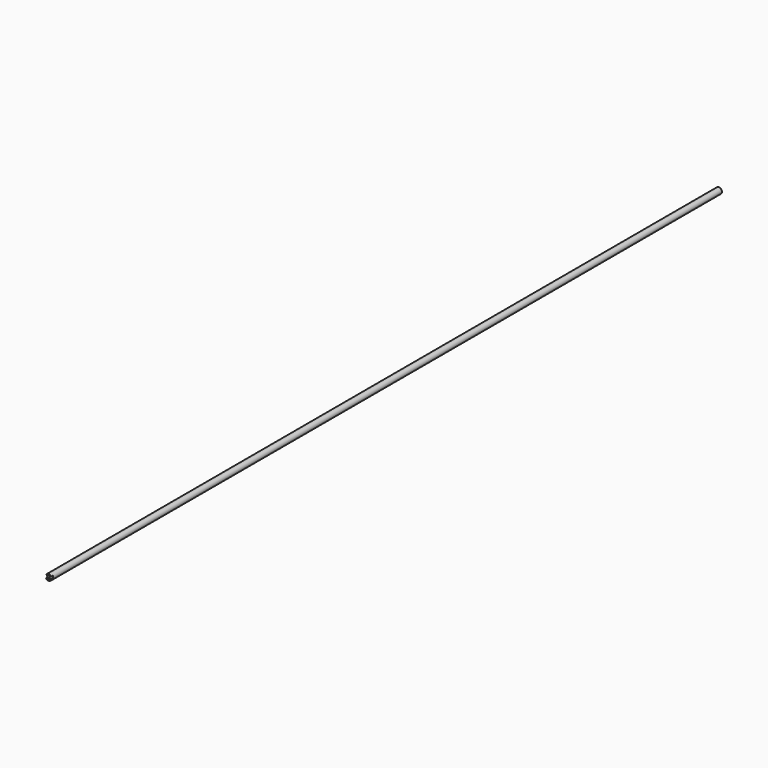
from build123d import *

# Parameters (mm, degrees)
F0_R     = 6.35
F1_DEPTH = 873.125
F2_W     = 6.6555930256
F2_H     = 6.604
F3_DEPTH = 12.7


with BuildPart() as f1:
    # F0 (on Front) → F1 (new body, symmetric)
    with BuildSketch(Plane.XZ):
        Circle(F0_R)
    extrude(amount=F1_DEPTH, both=True)

    # F2 (on Right) → F3 (cut, symmetric)
    with BuildSketch(Plane.YZ):
        with Locations((-872.6427965128, 0)):
            Rectangle(F2_W, F2_H)
    extrude(amount=F3_DEPTH, both=True, mode=Mode.SUBTRACT)


solid = f1.part
